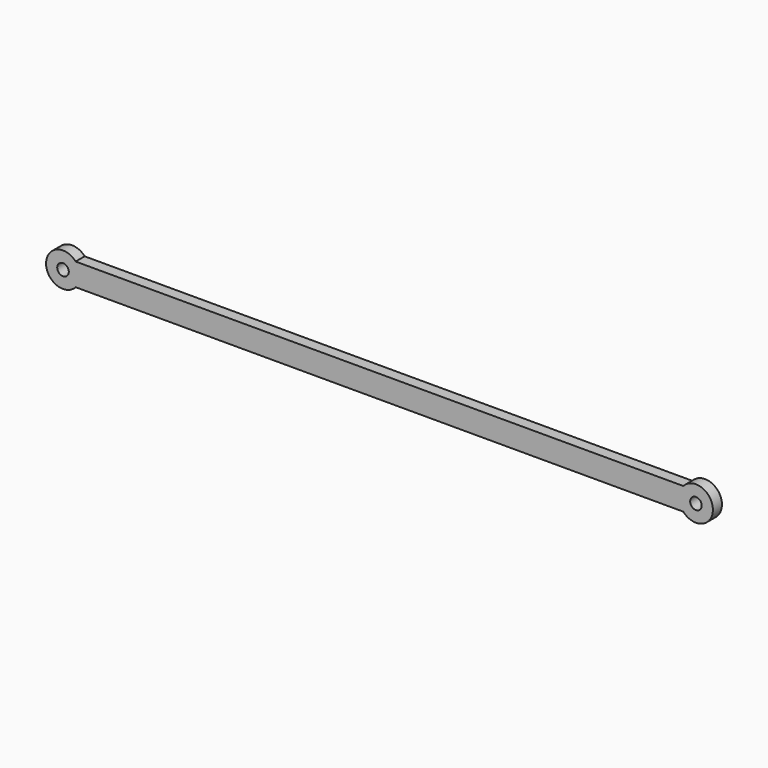
from build123d import *

# Parameters (mm, degrees)
F0_R     = 1.6256
F1_DEPTH = 3.175


with BuildPart() as f1:
    # F0 (on Front) → F1 (new body)
    with BuildSketch(Plane.XZ):
        with BuildLine():
            Line((0, -3.175), (0, 0))
            Line((0, 0), (0, 3.175))
            Line((0, 3.175), (-40.9002420857, 3.175))
            Line((-40.9002420857, 3.175), (-44.45, 3.175))
            Line((-44.45, 3.175), (-44.45, 1.6256))
            ThreePointArc((-44.45, 1.6256), (-43.3005272165, 1.1494727835), (-42.8244, 0))
            ThreePointArc((-42.8244, 0), (-43.3005272165, -1.1494727835), (-44.45, -1.6256))
            Line((-44.45, -1.6256), (-44.45, -3.175))
            Line((-44.45, -3.175), (-40.9002420857, -3.175))
            Line((-40.9002420857, -3.175), (0, -3.175))
        make_face()
        with BuildLine():
            Line((0, 3.175), (0, 0))
            Line((0, 0), (0, -3.175))
            Line((0, -3.175), (40.9002420857, -3.175))
            ThreePointArc((40.9002420857, -3.175), (49.2125, 0), (40.9002420857, 3.175))
            Line((40.9002420857, 3.175), (0, 3.175))
        make_face()
        with BuildLine():
            ThreePointArc((46.0756, 0), (44.45, -1.6256), (42.8244, 0))
            ThreePointArc((42.8244, 0), (44.45, 1.6256), (46.0756, 0))
        make_face(mode=Mode.SUBTRACT)
        with BuildLine():
            ThreePointArc((-47.9997579143, -3.175), (-49.2125, 0), (-47.9997579143, 3.175))
            Line((-47.9997579143, 3.175), (-88.9, 3.175))
            Line((-88.9, 3.175), (-129.8002420857, 3.175))
            ThreePointArc((-129.8002420857, 3.175), (-138.1125, 0), (-129.8002420857, -3.175))
            Line((-129.8002420857, -3.175), (-88.9, -3.175))
            Line((-88.9, -3.175), (-47.9997579143, -3.175))
        make_face()
        with Locations((-133.35, 0)):
            Circle(F0_R, mode=Mode.SUBTRACT)
        with BuildLine():
            Line((-44.45, 1.6256), (-44.45, 3.175))
            Line((-44.45, 3.175), (-47.9997579143, 3.175))
            ThreePointArc((-47.9997579143, 3.175), (-49.2125, 0), (-47.9997579143, -3.175))
            Line((-47.9997579143, -3.175), (-44.45, -3.175))
            Line((-44.45, -3.175), (-44.45, -1.6256))
            ThreePointArc((-44.45, -1.6256), (-46.0756, 0), (-44.45, 1.6256))
        make_face()
        with BuildLine():
            Line((-44.45, -1.6256), (-44.45, 1.6256))
            ThreePointArc((-44.45, 1.6256), (-46.0756, 0), (-44.45, -1.6256))
        make_face()
        with BuildLine():
            ThreePointArc((-42.8244, 0), (-43.3005272165, 1.1494727835), (-44.45, 1.6256))
            Line((-44.45, 1.6256), (-44.45, -1.6256))
            ThreePointArc((-44.45, -1.6256), (-43.3005272165, -1.1494727835), (-42.8244, 0))
        make_face()
    extrude(amount=F1_DEPTH)


solid = f1.part
